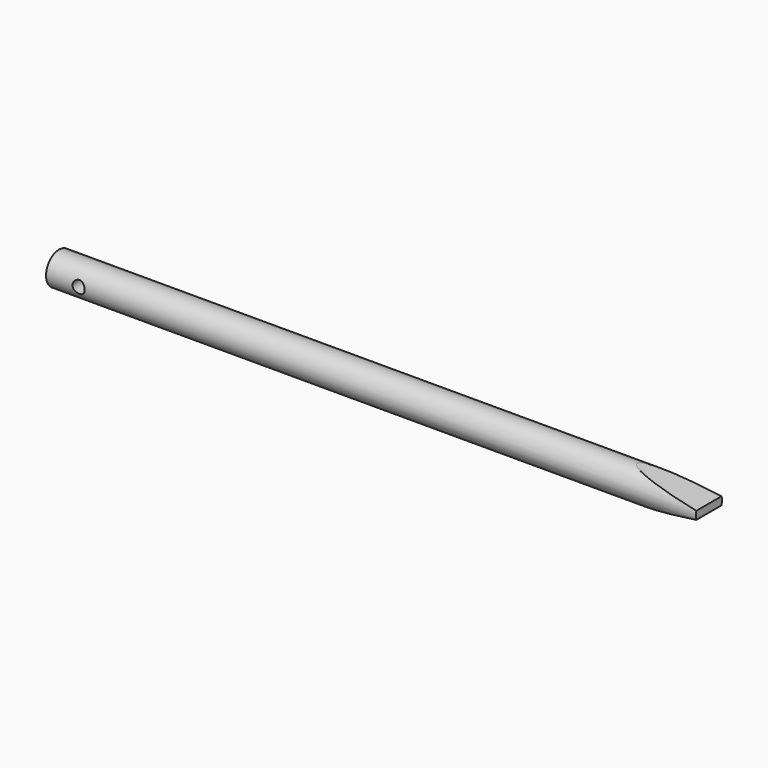
from build123d import *

# Parameters (mm, degrees)
F0_R     = 3.175
F1_DEPTH = 127
F2_R     = 1.1938
F3_DEPTH = 12.7


with BuildPart() as f1:
    # F0 (on Right) → F1 (new body)
    with BuildSketch(Plane.YZ):
        Circle(F0_R)
    extrude(amount=-F1_DEPTH)

    # F2 (on Front) → F3 (cut, symmetric)
    with BuildSketch(Plane.XZ):
        Polygon((-16.088832, 3.539985), (0, 0.782148), (0, 4.482536), (-16.088832, 4.482536), align=None)
        Polygon((0, -0.782148), (-16.088832, -3.539985), (-16.088832, -4.482536), (0, -4.482536), align=None)
        with Locations((-120.65, 0)):
            Circle(F2_R)
    extrude(amount=F3_DEPTH, both=True, mode=Mode.SUBTRACT)


solid = f1.part
